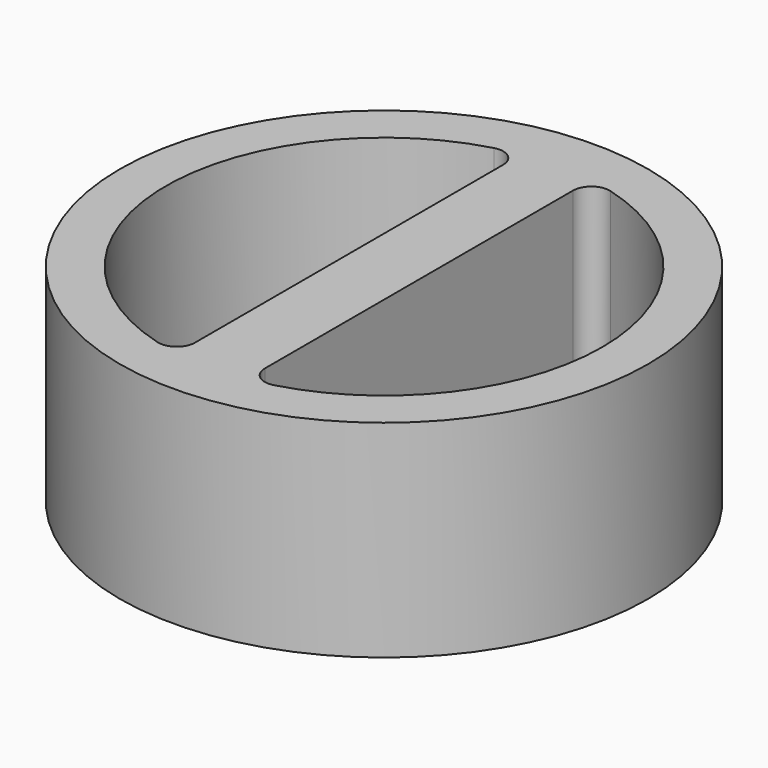
from build123d import *

# Parameters (mm, degrees)
F0_R     = 73.025
F1_DEPTH = 57.15
F3_DEPTH = 44.45
F4_R     = 5.08
F5_R     = 5.08


with BuildPart() as f1:
    # F0 (on Top) → F1 (new body)
    with BuildSketch(Plane.XY):
        Circle(F0_R)
    extrude(amount=F1_DEPTH)

    # F2 (on face) → F3 (cut)
    with BuildSketch(Plane.XY.offset(57.15)):
        with BuildLine():
            Line((-9.652, 0), (-9.652, 59.5478338901))
            ThreePointArc((-9.652, 59.5478338901), (-60.325, 0), (-9.652, -59.5478338901))
            Line((-9.652, -59.5478338901), (-9.652, 0))
        make_face()
        with BuildLine():
            ThreePointArc((9.652, -59.5478338901), (45.9421512611, -39.0950682631), (60.325, 0))
            ThreePointArc((60.325, 0), (45.9421512611, 39.0950682631), (9.652, 59.5478338901))
            Line((9.652, 59.5478338901), (9.652, 0))
            Line((9.652, 0), (9.652, -59.5478338901))
        make_face()
    extrude(amount=-F3_DEPTH, mode=Mode.SUBTRACT)

    # F4
    f4_edges = [f1.edges().sort_by_distance(p)[0] for p in [
        (-9.652, 59.547834, 34.925),
    ]]
    fillet(f4_edges, radius=F4_R)

    # F5
    f5_edges = [f1.edges().sort_by_distance(p)[0] for p in [
        (9.652, 59.547834, 34.925),
        (9.652, -59.547834, 34.925),
        (-9.652, -59.547834, 34.925),
    ]]
    fillet(f5_edges, radius=F5_R)


solid = f1.part
